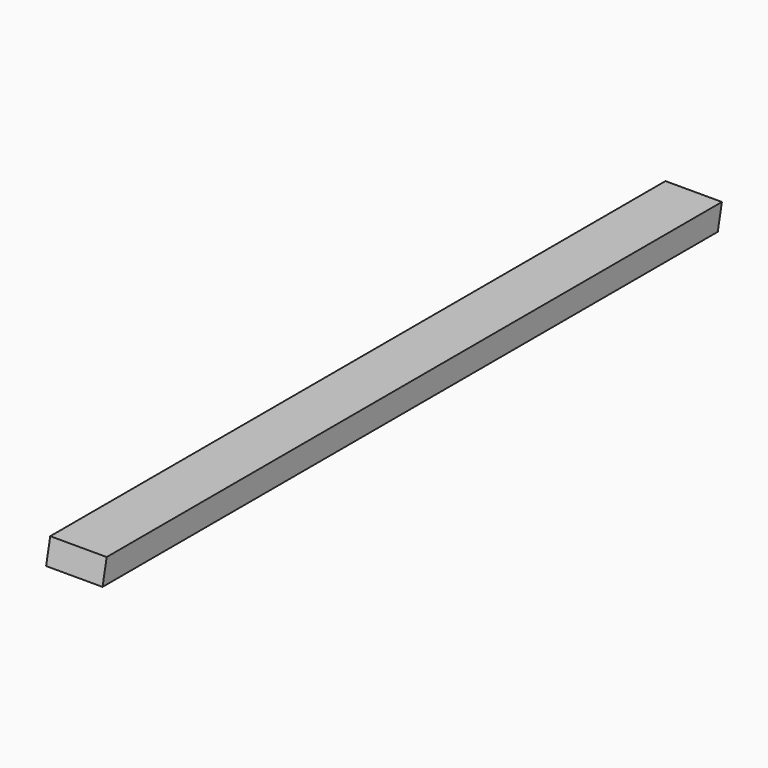
from build123d import *

# Parameters (mm, degrees)
F0_W     = 88.9
F0_H     = 1219.2
F1_DEPTH = 38.1
F3_DEPTH = 88.901


with BuildPart() as f1:
    # F0 (on Top) → F1 (new body)
    with BuildSketch(Plane.XY):
        with Locations((44.45, 609.6)):
            Rectangle(F0_W, F0_H)
    extrude(amount=F1_DEPTH)

    # F2 (on face) → F3 (cut, through all)
    with BuildSketch(Plane(origin=(0, 0, 0), x_dir=(0, -1, 0), z_dir=(-1, 0, 0))):
        Polygon((0, 38.1), (-8.1943662455, 38.1), (0, 0), align=None)
        Polygon((-1219.2, 38.1), (-1219.2, 0), (-1211.0056337545, 0), align=None)
    extrude(amount=-F3_DEPTH, mode=Mode.SUBTRACT)


solid = f1.part
